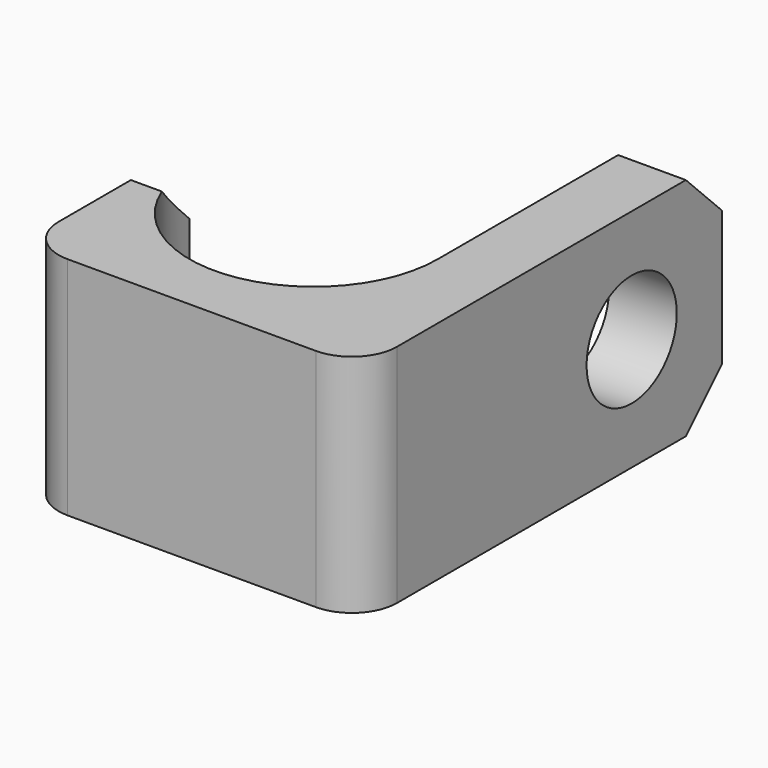
from build123d import *

# Parameters (mm, degrees)
F1_DEPTH = 10
F2_SIZE  = 2
F3_R     = 2.5
F4_DEPTH = 25


with BuildPart() as f1:
    # F0 (on Top) → F1 (new body)
    with BuildSketch(Plane.XY):
        with BuildLine():
            ThreePointArc((-2, 0), (-0.585786, 0.585786), (0, 2))
            Line((0, 2), (0, 20))
            Line((0, 20), (-3, 20))
            Line((-3, 20), (-3, 8))
            ThreePointArc((-3, 8), (-8.5, 2.5), (-14, 8))
            Line((-14, 8), (-15, 8))
            Line((-15, 8), (-15, 2))
            ThreePointArc((-15, 2), (-14.414214, 0.585786), (-13, 0))
            Line((-13, 0), (-2, 0))
        make_face()
    extrude(amount=F1_DEPTH)

    # F2
    f2_edges = [f1.edges().sort_by_distance(p)[0] for p in [
        (-14.5, 8, 10),
        (-14.5, 8, 0),
        (-1.5, 20, 0),
        (-1.5, 20, 10),
    ]]
    chamfer(f2_edges, length=F2_SIZE)

    # F3 (on face) → F4 (cut)
    with BuildSketch(Plane(origin=(-3, 0, 0), x_dir=(0, -1, 0), z_dir=(-1, 0, 0))):
        with Locations((-15, 5)):
            Circle(F3_R)
    extrude(amount=-F4_DEPTH, mode=Mode.SUBTRACT)


solid = f1.part
